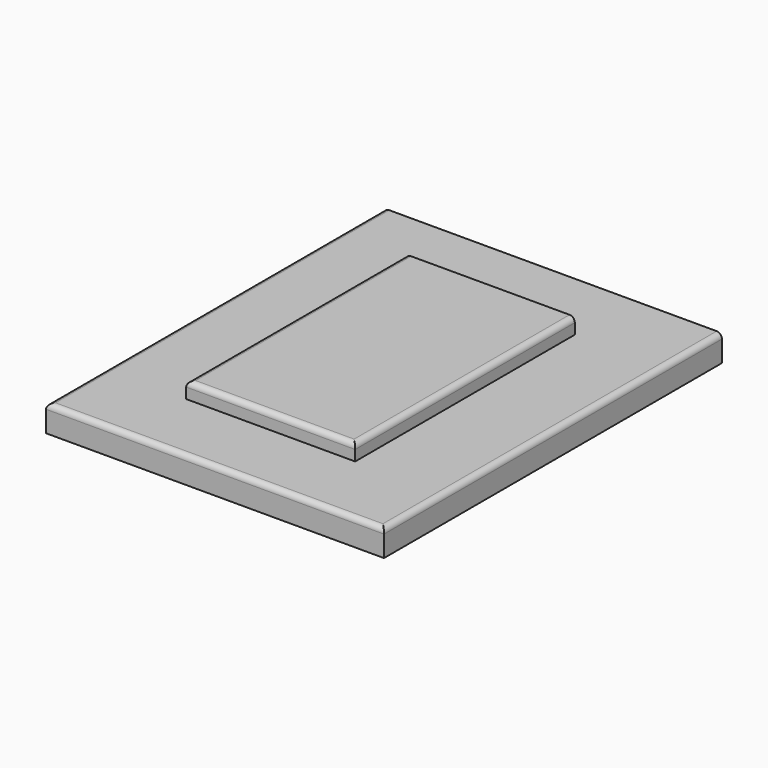
from build123d import *

# Parameters (mm, degrees)
F0_W     = 320
F0_H     = 400
F1_DEPTH = 25
F3_R     = 5
F4_W     = 160
F4_H     = 260
F5_DEPTH = 15
F6_R     = 5


with BuildPart() as f1:
    # F0 (on Top) → F1 (new body)
    with BuildSketch(Plane.XY):
        with Locations((3.315994, 0)):
            Rectangle(F0_W, F0_H)
    extrude(amount=F1_DEPTH)

    # F3
    f3_edges = [f1.edges().sort_by_distance(p)[0] for p in [
        (-156.684006, 0, 25),
        (163.315994, 0, 25),
        (3.315994, -200, 25),
    ]]
    fillet(f3_edges, radius=F3_R)

    # F4 (on face) → F5 (join)
    with BuildSketch(Plane.XY.offset(25)):
        Rectangle(F4_W, F4_H)
    extrude(amount=F5_DEPTH)

    # F6
    f6_edges = [f1.edges().sort_by_distance(p)[0] for p in [
        (-80, 0, 40),
        (0, -130, 40),
        (80, 0, 40),
    ]]
    fillet(f6_edges, radius=F6_R)


solid = f1.part
